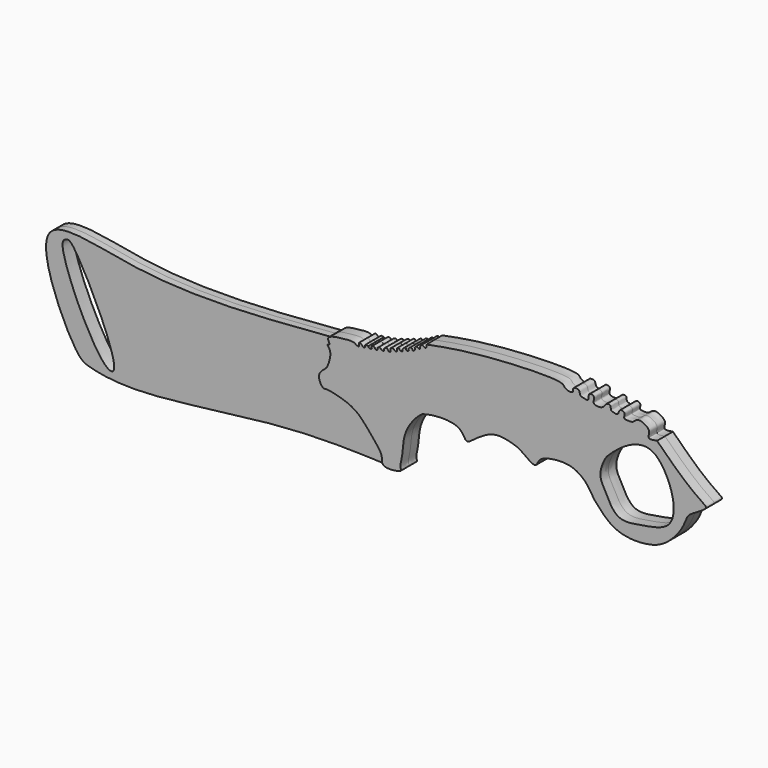
from build123d import *

# Parameters (mm, degrees)
F2_DEPTH = 2.159
F4_DEPTH = 1.524
F6_DEPTH = 3.6840001


with BuildPart() as f2:
    # F1 (on Front) → F2 (new body, symmetric)
    with BuildSketch(Plane.XZ):
        with BuildLine():
            add(Edge.make_bspline(
                [(-7.5472774915, 7.5414557941), (-8.2891078424, 6.9672654455), (-9.7228911591, 5.8574907624), (-8.2940058517, 3.3024394896), (-7.4945502644, 3.6959383682), (-4.1235619129, 2.9507552135), (-0.6165019319, 1.5810238381), (2.28519026, -2.0789882597), (4.9958738154, -5.1195157613), (4.1904695146, -7.7227885662), (9.2830725528, -7.0682845126), (8.4275478052, -6.1720213102), (9.1501880871, -3.8063305162), (9.2005314004, -0.7855444048), (10.1079833985, 2.0815064781), (12.1197738176, 4.5927449779), (13.0251769708, 5.2888576435), (13.3995693177, 5.5767064914)],
                knots=[0, 0, 0, 0, 0.0662738046, 0.1280916524, 0.1624665057, 0.2378458558, 0.3206223257, 0.4117829116, 0.494828633, 0.5496894107, 0.6303231883, 0.6618684041, 0.7258217124, 0.8001970379, 0.8731874835, 0.9475618839, 1, 1, 1, 1], degree=3))
            add(Edge.make_bspline(
                [(13.3995693177, 5.5767064914), (14.296776931, 5.8084194275), (16.3474989273, 6.338039114), (22.0006656611, 6.1603910253), (22.7695757901, 2.9894750829), (24.3219655075, 4.1027817251), (25.5602032111, 5.067125277), (27.4696302998, 6.2620901516), (29.2661670531, 6.8628102065), (31.2408308032, 6.8300504436), (34.1292814517, 6.0485053603), (34.7513943865, 5.6138881645), (34.9791310728, 5.4547879845)],
                knots=[0, 0, 0, 0, 0.1183709418, 0.2705571047, 0.3708201806, 0.4462554285, 0.533729804, 0.6333258129, 0.7238757821, 0.819099164, 0.9337776879, 1, 1, 1, 1], degree=3))
            add(Edge.make_bspline(
                [(34.9791310728, 5.4547879845), (35.8039620668, 4.8566361283), (37.0952936474, 3.9201868587), (38.2972232104, 3.5814138258), (38.7469224263, 5.4595449069), (41.8380826727, 6.3012125803), (45.4048642666, 6.4113813334), (47.8961483137, 5.1748064348), (49.0495799427, 4.0222030193), (49.5210774243, 3.4056613222)],
                knots=[0, 0, 0, 0, 0.1363423283, 0.2134536113, 0.312979078, 0.4564203197, 0.6136055928, 0.7484896922, 0.8749049675, 0.8749049675, 0.8749049675, 0.8749049675], degree=3))
            add(Edge.make_bspline(
                [(49.5210774243, 3.4056613222), (49.6013816464, 5.699460916), (49.7669427586, 10.4285274841), (56.2511307933, 15.5258281447), (60.5962432204, 16.5698533074), (62.7004131675, 17.0754343271)],
                knots=[0, 0, 0, 0, 0.3269523159, 0.6740690296, 1, 1, 1, 1], degree=3))
            add(Edge.make_bspline(
                [(62.7004131675, 17.0754343271), (62.5594581835, 17.2984832513), (63.06979137, 18.2983297059), (62.1629259888, 19.3000428322), (60.2584861501, 20.0997375289), (59.3042481925, 18.7843621954), (58.1669471285, 18.9136026214), (57.077924652, 18.9026786356), (57.7588927658, 20.3014042142), (56.1861690116, 20.6308150724), (56.1364876765, 19.1298429791), (55.1142773936, 19.4241255465), (54.3364241661, 19.5663565414), (54.5383441295, 20.7407054086), (53.2509460106, 20.6881183911), (52.8824411001, 19.2816538522), (50.1330484578, 19.4710718778), (51.2329264358, 21.2008455395), (49.4024932976, 21.6321317271), (49.7508109468, 19.7000788926), (48.7474669174, 20.0883572626), (47.6308568902, 20.1093797596), (47.764015909, 21.5046652954), (45.9830004921, 21.4761234535), (46.4792820126, 20.3534395548), (45.2102135403, 20.1998726637), (44.2694966137, 20.8156665779), (43.8834785177, 22.0722074354), (25.3153896153, 21.3266679883), (17.7726172593, 19.8725141914), (14.296776931, 19.2024149001)],
                knots=[0.0378503727, 0.0378503727, 0.0378503727, 0.0378503727, 0.06746447, 0.0989238044, 0.1368278868, 0.1693415121, 0.1992671592, 0.2235625209, 0.2520368144, 0.2793774069, 0.3082695669, 0.3337377608, 0.3570592114, 0.3829163556, 0.4083845495, 0.4405087271, 0.4784951458, 0.5096871857, 0.5374812645, 0.5691496748, 0.5929729966, 0.6207070819, 0.6489653902, 0.6788295256, 0.7027734744, 0.7301140551, 0.7590061805, 0.7841705498, 0.9005420459, 1, 1, 1, 1], degree=3))
            add(Edge.make_bspline(
                [(14.296776931, 19.2024149001), (14.3322063623, 19.0109790705), (14.3981774536, 18.6545175047), (13.9192500901, 18.3310049466), (13.4289083278, 18.9505718326), (12.8914641092, 18.5142346507), (12.984723589, 18.1229898505), (12.7885799271, 17.6078578964), (12.2463164008, 18.2766664125), (11.5948824132, 17.7803437359), (11.9945313621, 17.4564394043), (11.2852491153, 16.7771951053), (11.1226514914, 17.8846854454), (10.2550968777, 17.0735817944), (10.6166935642, 16.7963821876), (9.7682869046, 16.4200653034), (9.9435095258, 17.3774321269), (8.9415734157, 16.6630277123), (9.2719788782, 16.006765302), (8.3849557855, 16.2363633311), (8.4187063941, 16.6469009442), (7.6803979602, 16.4547459394), (8.0614917717, 15.6902233217), (7.3290281571, 15.6624047145), (7.1978565367, 16.1926388733), (6.234402884, 16.0162501088), (6.7107283054, 15.1358246823), (5.9035524144, 15.1737032397), (5.8398219929, 15.8075485515), (4.9463502526, 15.5715086241), (5.2372077845, 14.9209097913), (4.4521517017, 14.8771814335), (4.3443845719, 15.4054904372), (3.450731452, 15.1667069743), (3.7564002844, 14.5810891123), (3.055682542, 14.6470335628), (3.2275429776, 15.0360557313), (2.1367187071, 15.1909395954), (2.5970541387, 14.334412326), (1.7704387798, 14.4364477228), (1.6728906145, 14.6584290228), (1.6294228844, 14.7573444992)],
                knots=[0, 0, 0, 0, 0.02659817, 0.0495269111, 0.0783991271, 0.1039906742, 0.1274781795, 0.1486379036, 0.1773026881, 0.204214511, 0.2256957269, 0.2532018122, 0.2815261173, 0.3129574919, 0.3317652193, 0.3584749431, 0.3833814859, 0.4155764001, 0.4404747292, 0.468711052, 0.4885453844, 0.5134940849, 0.5413177748, 0.5654773321, 0.590291155, 0.6192169605, 0.6481642054, 0.6729097735, 0.6986858909, 0.7270709952, 0.7519693697, 0.7780435576, 0.8019220412, 0.831007451, 0.8538037274, 0.8772309099, 0.8958618633, 0.9259400752, 0.9519702057, 0.9785977919, 1, 1, 1, 1], degree=3))
            add(Edge.make_bspline(
                [(1.6294228844, 14.7573444992), (1.307352418, 14.8228396755), (0.7224309909, 14.9417873469), (1.1437268591, 14.1859097679), (0.4292791237, 14.163574073), (0.1057751748, 14.8166129138), (-0.5556955526, 14.9027558057), (-0.183591336, 13.8137642332), (-1.0802797834, 14.1811329704), (-1.4381066363, 14.6046196382), (-4.0114820444, 14.5128109086), (-7.9315864347, 13.8082510568), (-6.4588396801, 12.3109684363), (-7.5711697542, 12.2490332239), (-6.1657302091, 11.176476801), (-7.0911521994, 8.2033059968), (-7.4316685953, 7.7092074465), (-7.5472774915, 7.5414557941)],
                knots=[0, 0, 0, 0, 0.0567495792, 0.1030645412, 0.1472320333, 0.2056987857, 0.2472084534, 0.3037984055, 0.3557761089, 0.4053103636, 0.5165049696, 0.6372443049, 0.7053339671, 0.7507178357, 0.8223715768, 0.9396932829, 1, 1, 1, 1], degree=3))
        make_face()
        with BuildLine():
            add(Edge.make_bspline(
                [(49.5210774243, 3.4056613222), (49.6013816464, 5.699460916), (49.7669427586, 10.4285274841), (56.2511307933, 15.5258281447), (60.5962432204, 16.5698533074), (62.7004131675, 17.0754343271)],
                knots=[0, 0, 0, 0, 0.3269523159, 0.6740690296, 1, 1, 1, 1], degree=3))
            add(Edge.make_bspline(
                [(49.5210774243, 3.4056613222), (49.9876507292, 2.7955585995), (50.3694951867, 2.1277619245), (50.7513396442, 1.4599652495)],
                knots=[0.8749049675, 0.8749049675, 0.8749049675, 0.8749049675, 1, 1, 1, 1], degree=3))
            add(Edge.make_bspline(
                [(50.7513396442, 1.4599652495), (52.1782970461, -0.2088390785), (55.0435829463, -3.5597460537), (62.0914954871, -3.8494540757), (66.7587011029, -2.1850865968), (70.2444116702, 2.1403070867), (70.9418583247, 4.5569689391), (71.8792299671, 5.6004728695), (75.8125750635, 7.5672495817), (74.4014764071, 8.4623715009), (70.5870114668, 11.1121176295), (66.7518222163, 14.8754914446), (64.5098984241, 17.0754343271)],
                knots=[0, 0, 0, 0, 0.1243785067, 0.2497481572, 0.3595586401, 0.4733305207, 0.548012492, 0.6092341081, 0.7037702766, 0.7485025442, 0.8529829709, 1, 1, 1, 1], degree=3))
            add(Edge.make_bspline(
                [(64.5098984241, 17.0754343271), (63.6952344942, 16.9328926717), (62.8805705642, 16.7903510162), (62.7004131675, 17.0754343271)],
                knots=[0, 0, 0, 0, 0.0378503727, 0.0378503727, 0.0378503727, 0.0378503727], degree=3))
        make_face()
        with BuildLine():
            add(Edge.make_bspline(
                [(54.0596321225, 10.9928827733), (53.6898035928, 10.6325262397), (53.1960230978, 10.0989409816), (51.5768008714, 6.5280812072), (53.4051871912, 3.4913967865), (55.6906152179, -1.2513035795), (61.1857851016, -0.1553678841), (67.124862186, 0.726933541), (68.6587606738, 5.1893912415), (67.0242174358, 11.0818943768), (63.1796435704, 16.1514188826), (57.5036259501, 14.2030570465), (54.750105285, 11.6656716345), (54.0596321225, 10.9928827733)],
                knots=[0, 0, 0, 0, 0.0498653022, 0.1304447987, 0.2128973414, 0.3059620872, 0.4042766655, 0.5086184978, 0.594937977, 0.7032345518, 0.8060356724, 0.9069010362, 1, 1, 1, 1], degree=3))
        make_face(mode=Mode.SUBTRACT)
    extrude(amount=F2_DEPTH, both=True)


with BuildPart() as f4:
    # F3 (on Front) → F4 (new body, symmetric)
    with BuildSketch(Plane.XZ):
        with BuildLine():
            add(Edge.make_bspline(
                [(-7.6564983465, 3.6273743026), (-7.8556872263, 3.5701403919), (-8.3703857292, 3.4222495649), (-9.1291135794, 4.9307096213), (-9.1884054578, 5.971570271), (-8.3623115676, 6.9086084131), (-7.6847509386, 7.5884606738), (-7.0631139958, 7.7090122646), (-6.5053506746, 10.3267259116), (-6.5640681348, 11.5042794191), (-7.564844529, 12.1994321046), (-6.5484892365, 12.3424558636), (-7.0212183073, 12.8551738597), (-7.1576079966, 13.2503533377), (-7.233150769, 13.4692331776)],
                knots=[0, 0, 0, 0, 0.0664583416, 0.1717264987, 0.2594196372, 0.3537584581, 0.4364224665, 0.4987560852, 0.635141617, 0.7331277806, 0.8071426003, 0.8698309778, 0.9279026966, 1, 1, 1, 1], degree=3))
            add(Edge.make_bspline(
                [(-7.233150769, 13.4692331776), (-21.7452007433, 12.2846583358), (-46.0055701405, 10.3043576), (-75.4791693739, 19.7140441122), (-63.0408414892, -7.9391743357), (-59.5311927574, -9.5626176212), (-48.3734154365, -11.5526344926), (-17.6500784261, -6.2396709369), (-2.2179048346, -6.779429325), (4.9005076289, -7.0284041576)],
                knots=[0, 0, 0, 0, 0.2097912008, 0.3507162694, 0.4974237833, 0.5621787396, 0.6639453911, 0.8449877911, 1, 1, 1, 1], degree=3))
            add(Edge.make_bspline(
                [(4.9005076289, -7.0284041576), (4.7881788651, -6.8815241056), (4.5338293444, -6.548939026), (4.7068254624, -5.6242003369), (4.2299594885, -4.4316158008), (3.5630938257, -3.5321102534), (2.6292544145, -2.3984007044), (2.174647288, -1.8722709694), (1.9681386184, -1.6332726227)],
                knots=[0, 0, 0, 0, 0.1221704622, 0.2766343853, 0.4599934222, 0.6369312576, 0.8350733224, 1, 1, 1, 1], degree=3))
            add(Edge.make_bspline(
                [(1.9681386184, -1.6332726227), (1.6164475876, -1.1940858566), (0.8824729555, -0.2775087566), (-0.5883357687, 1.1935133561), (-2.2705568151, 2.2663921683), (-4.5611288292, 3.0253280617), (-5.6652256399, 3.2936381865), (-6.1654620804, 3.4152022563)],
                knots=[0, 0, 0, 0, 0.1880764759, 0.3925131724, 0.5960226333, 0.8169687676, 1, 1, 1, 1], degree=3))
            add(Edge.make_bspline(
                [(-6.1654620804, 3.4152022563), (-6.6624741691, 3.4859262717), (-7.1594862578, 3.5566502872), (-7.6564983465, 3.6273743026)],
                knots=[0, 0, 0, 0, 1.506056481, 1.506056481, 1.506056481, 1.506056481], degree=3))
        make_face()
    extrude(amount=F4_DEPTH, both=True)

    # F5 (on face) → F6 (cut, through all)
    with BuildSketch(Plane.XZ.offset(1.524)):
        with BuildLine():
            add(Edge.make_bspline(
                [(-65.420717001, 12.117694132), (-65.4187295439, 8.5359354969), (-57.6862572304, -8.7874450775), (-51.7091298533, -8.9849631485), (-62.6504682151, 13.4873843927), (-64.5952207015, 13.5763545774), (-65.4212413447, 13.0626567608), (-65.420717001, 12.117694132)],
                knots=[0, 0, 0, 0, 0.3541672068, 0.4566852069, 0.8147913724, 0.9065613268, 1, 1, 1, 1], degree=3))
        make_face()
    extrude(amount=-F6_DEPTH, mode=Mode.SUBTRACT)


solid = Compound([f2.part, f4.part])
